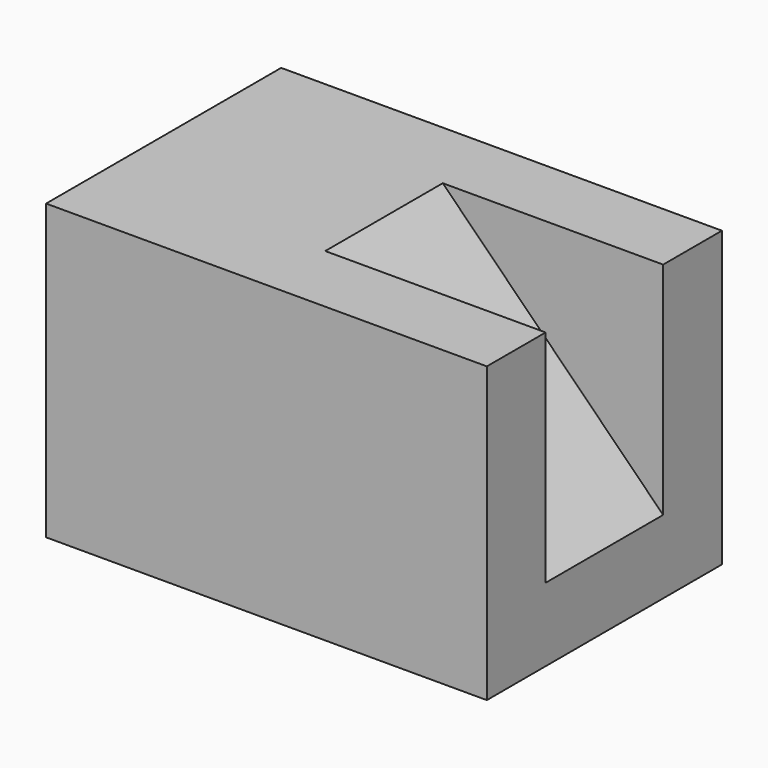
from build123d import *

# Parameters (mm, degrees)
F1_DEPTH = 12.7
F2_DEPTH = 6.35


with BuildPart() as f1:
    # F0 (on Front) → F1 (new body, symmetric)
    with BuildSketch(Plane.XZ):
        Polygon((-38.1, 0), (0, 0), (0, 6.35), (-19.05, 25.4), (-38.1, 25.4), align=None)
        Polygon((-19.05, 25.4), (0, 6.35), (0, 25.4), align=None)
    extrude(amount=F1_DEPTH, both=True)

    # F0 (on Front) → F2 (cut, symmetric)
    with BuildSketch(Plane.XZ):
        Polygon((-19.05, 25.4), (0, 6.35), (0, 25.4), align=None)
    extrude(amount=F2_DEPTH, both=True, mode=Mode.SUBTRACT)


solid = f1.part
